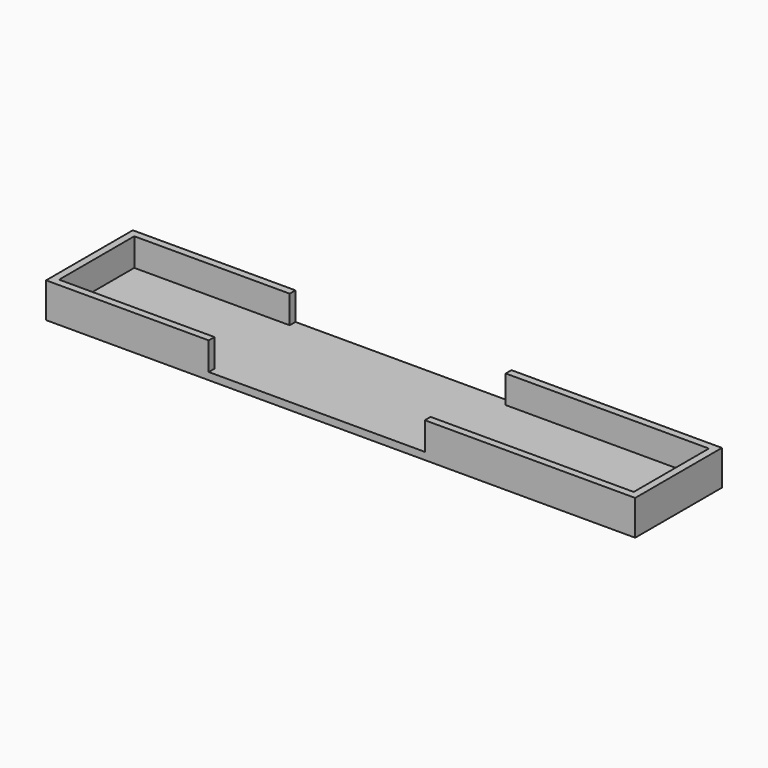
from build123d import *

# Parameters (mm, degrees)
F1_DEPTH = 38.1
F2_W     = 201.93
F2_H     = 33.02
F3_DEPTH = 9.779


with BuildPart() as f1:
    # F0 (on Front) → F1 (new body)
    with BuildSketch(Plane.XZ):
        Polygon((-103.505, -6.1595), (103.505, -6.1595), (103.505, 6.1595), (29.5656, 6.1595), (29.5656, -3.6195), (-46.355, -3.6195), (-46.355, 6.1595), (-103.505, 6.1595), align=None)
    extrude(amount=-F1_DEPTH)

    # F2 (on face) → F3 (cut)
    with BuildSketch(Plane.XY.offset(6.1595)):
        with Locations((0, 19.05)):
            Rectangle(F2_W, F2_H)
    extrude(amount=-F3_DEPTH, mode=Mode.SUBTRACT)


solid = f1.part
